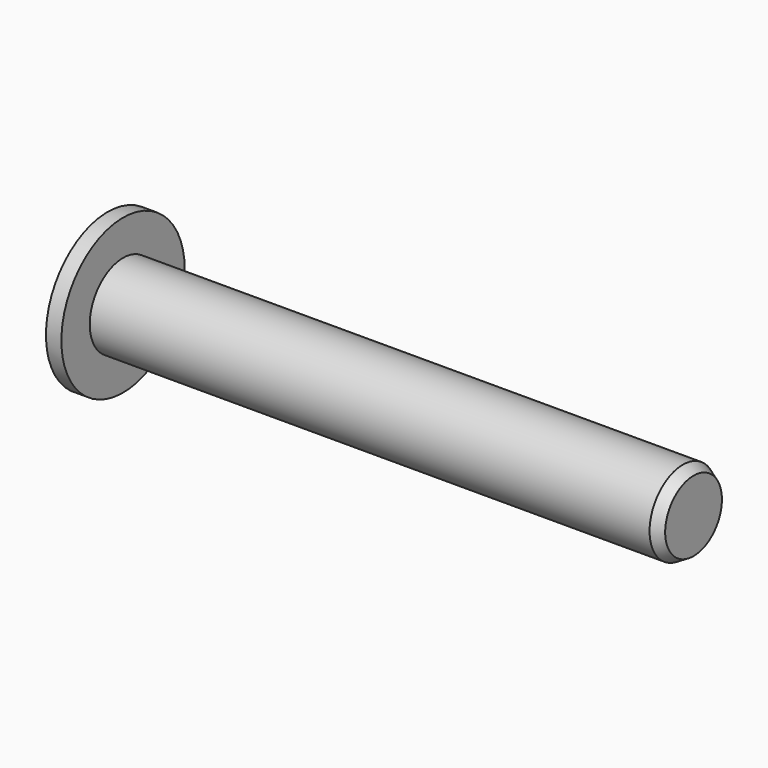
from build123d import *

# Parameters (mm, degrees)
F0_R     = 13.5
F1_DEPTH = 190
F0_R_2   = 25
F2_DEPTH = 5
F3_SIZE2 = 3.4641016151
F3_SIZE  = 2


with BuildPart() as f1:
    # F0 (on Right) → F1 (new body)
    with BuildSketch(Plane.YZ):
        Circle(F0_R)
    extrude(amount=F1_DEPTH)

    # F0 (on Right) → F2 (join)
    with BuildSketch(Plane.YZ):
        Circle(F0_R_2)
        Circle(F0_R, mode=Mode.SUBTRACT)
    extrude(amount=F2_DEPTH)

    # F3
    f3_edges = [f1.edges().sort_by_distance(p)[0] for p in [
        (190, -13.5, 0),
    ]]
    f3_side = f1.faces().sort_by_distance((190, 0, 0))[0]
    chamfer(f3_edges, length=F3_SIZE, length2=F3_SIZE2, reference=f3_side)


solid = f1.part
